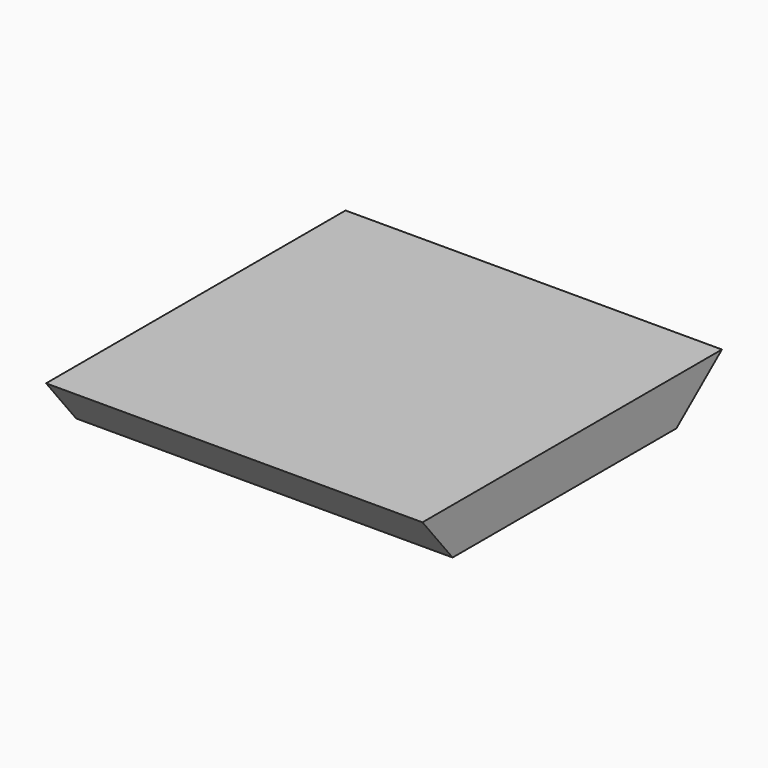
from build123d import *

# Parameters (mm, degrees)
F0_W     = 65
F0_H     = 48.3
F1_DEPTH = 8
F3_DEPTH = 65


with BuildPart() as f1:
    # F0 (on Top) → F1 (new body)
    with BuildSketch(Plane.XY):
        Rectangle(F0_W, F0_H)
    extrude(amount=F1_DEPTH)

    # F2 (on face) → F3 (join, through all)
    with BuildSketch(Plane.YZ.offset(32.5)):
        Polygon((33.980218, 8), (24.15, 8), (24.15, 0), align=None)
        Polygon((-24.15, 0), (-24.15, 8), (-30.660537, 8), align=None)
    extrude(amount=-F3_DEPTH)


solid = f1.part
